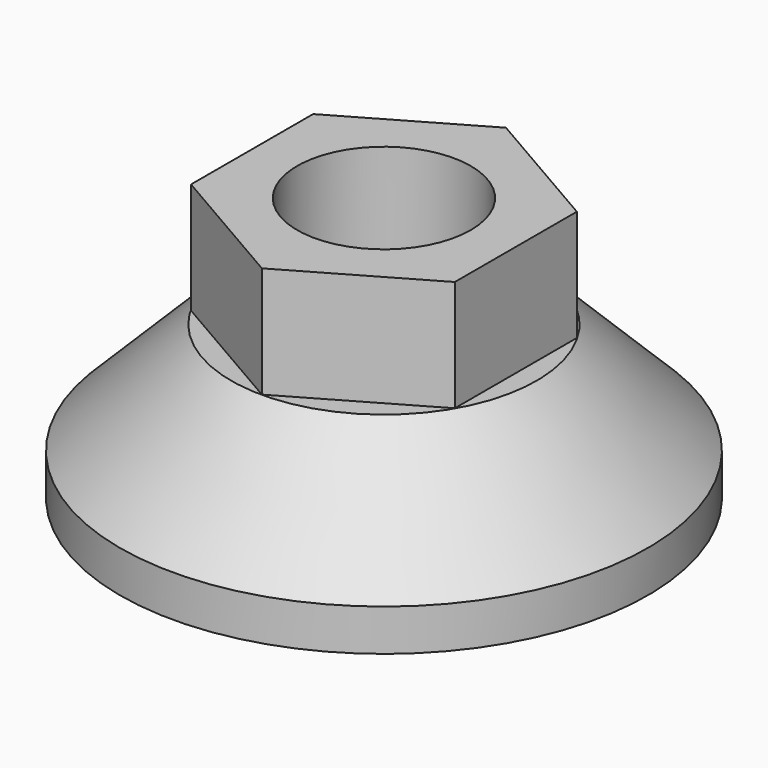
from build123d import *

# Parameters (mm, degrees)
F0_R     = 6.25
F1_DEPTH = 8


with BuildPart() as f1:
    # F0 (on Top) → F1 (new body)
    with BuildSketch(Plane.XY):
        Polygon((9.494796, -5.493831), (9.505195, 5.475819), (0.010399, 10.96965), (-9.494796, 5.493831), (-9.505195, -5.475819), (-0.010399, -10.96965), align=None)
        Circle(F0_R, mode=Mode.SUBTRACT)
    extrude(amount=F1_DEPTH)

    # F2 (on Right) → F3 (revolve)
    with BuildSketch(Plane.YZ):
        Polygon((11, 0), (0, 0), (0, -11), (19, -11), (19, -8), align=None)
    revolve(axis=Axis((0, 0, -5.5), (0, 0, 1)))


solid = f1.part
